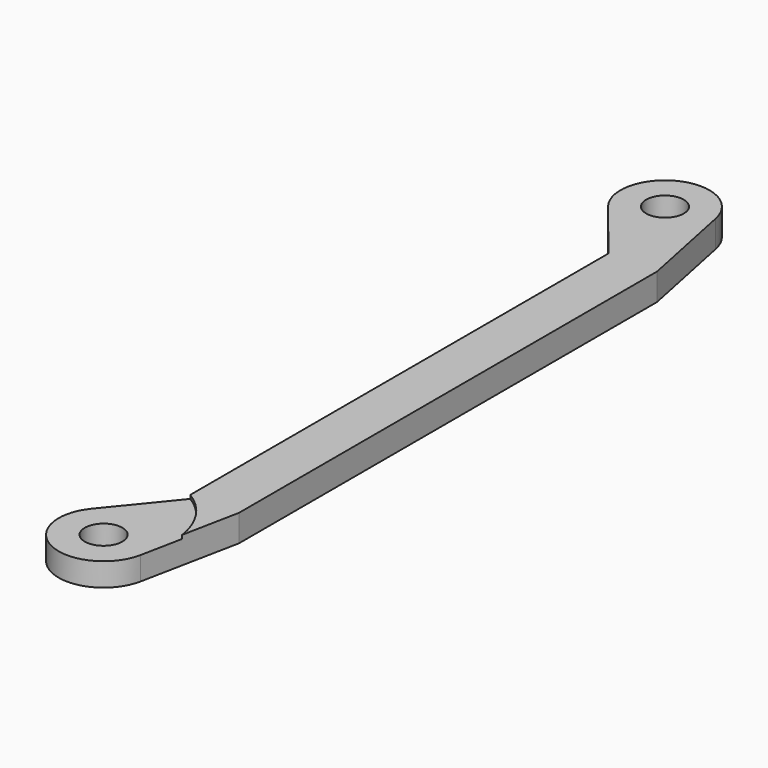
from build123d import *

# Parameters (mm, degrees)
F0_R     = 4
F1_DEPTH = 2.8575
F2_R     = 4
F3_DEPTH = 0.762


with BuildPart() as f1:
    # F0 (on Top) → F1 (new body, symmetric)
    with BuildSketch(Plane.XY):
        with BuildLine():
            ThreePointArc((-9.3891972775, 68.7422127286), (1.1268621176, 65.7548999509), (7.4419160472, 74.6785559673))
            ThreePointArc((7.4419160472, 74.6785559673), (7.393579397, 75.6337670155), (7.2490632795, 76.5792191137))
            ThreePointArc((7.2490632795, 76.5792191137), (-6.052640116, 83.2389068388), (-9.3891972775, 68.7422127286))
        make_face()
        with Locations((-2.0205164328, 74.6785559673)):
            Circle(F0_R, mode=Mode.SUBTRACT)
        with BuildLine():
            ThreePointArc((7.2490632795, 76.5792191137), (7.393579397, 75.6337670155), (7.4419160472, 74.6785559673))
            ThreePointArc((7.4419160472, 74.6785559673), (1.1268621176, 65.7548999509), (-9.3891972775, 68.7422127286))
            Line((-9.3891972775, 68.7422127286), (1.1836795602, 55.6182824075))
            Line((1.1836795602, 55.6182824075), (1.1836795602, -55.6117556989))
            Line((1.1836795602, -55.6117556989), (-9.4322250372, -68.6290018915))
            ThreePointArc((-9.4322250372, -68.6290018915), (1.1875720196, -65.6636230735), (7.5434108585, -74.6734440327))
            ThreePointArc((7.5434108585, -74.6734440327), (7.4968272467, -75.6162454537), (7.3575302067, -76.5498625525))
            Line((7.3575302067, -76.5498625525), (11.5469582379, -55.6117556989))
            Line((11.5469582379, -55.6117556989), (11.5469582379, 55.6182824075))
            Line((11.5469582379, 55.6182824075), (7.2490632795, 76.5792191137))
        make_face()
        with BuildLine():
            ThreePointArc((-9.4322250372, -68.6290018915), (-6.1011572795, -83.3231304729), (7.3575302067, -76.5498625525))
            ThreePointArc((7.3575302067, -76.5498625525), (7.4968272467, -75.6162454537), (7.5434108585, -74.6734440327))
            ThreePointArc((7.5434108585, -74.6734440327), (1.1875720196, -65.6636230735), (-9.4322250372, -68.6290018915))
        make_face()
        with Locations((-2.0205164328, -74.6734440327)):
            Circle(F0_R, mode=Mode.SUBTRACT)
    extrude(amount=F1_DEPTH, both=True)

    # F2 (on face) → F3 (cut)
    with BuildSketch(Plane.XY.offset(2.8575)):
        with BuildLine():
            Line((7.3575302067, -76.5498625525), (9.1220317198, -67.7311596292))
            ThreePointArc((9.1220317198, -67.7311596292), (6.5025045899, -60.7874217232), (1.1836795602, -55.6117556989))
            Line((1.1836795602, -55.6117556989), (-9.4322250372, -68.6290018915))
            ThreePointArc((-9.4322250372, -68.6290018915), (-6.1011572795, -83.3231304729), (7.3575302067, -76.5498625525))
        make_face()
        with Locations((-2.0205164328, -74.6734440327)):
            Circle(F2_R, mode=Mode.SUBTRACT)
    extrude(amount=-F3_DEPTH, mode=Mode.SUBTRACT)


solid = f1.part
